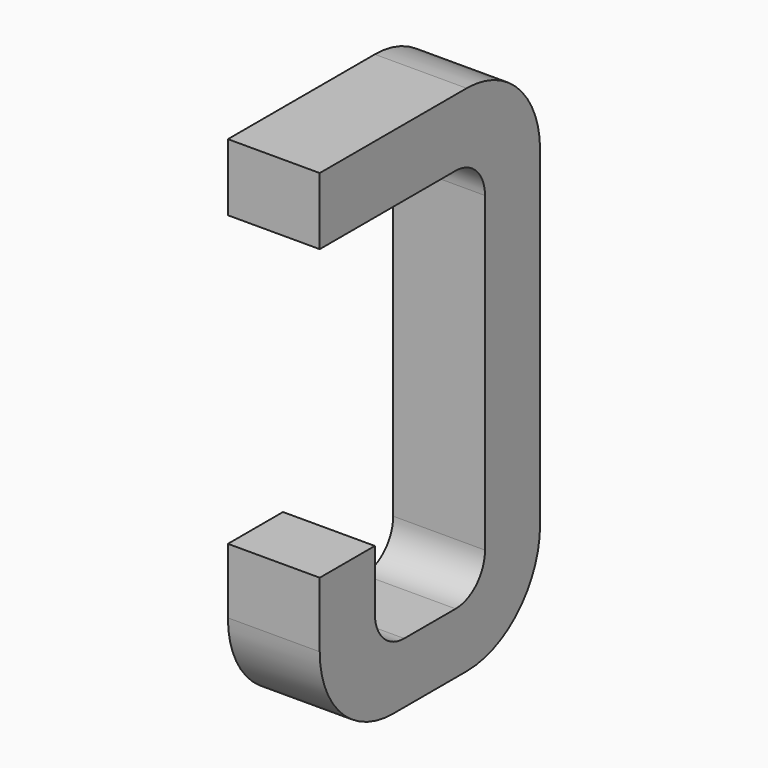
from build123d import *

# Parameters (mm, degrees)
BOX200_W     = 0.5
BOX200_H     = 1.5
BOX200_DEPTH = 2.795
FILLET397_R  = 0.5
FILLET399_R  = 0.5
FILLET410_R  = 0.5
BOX196_W     = 0.75
BOX196_H     = 2.1
BOX196_DEPTH = 1
FILLET411_R  = 0.2
FILLET407_R  = 0.2
FILLET398_R  = 0.2
FILLET409_R  = 0.2
BOX197_W     = 1
BOX197_H     = 1.575
BOX197_DEPTH = 3


with BuildPart() as part:
    # Box200 → Box200 (join)
    with BuildSketch(Plane(origin=(-0.25, 11.125, 0), x_dir=(1, 0, 0), z_dir=(0, 0, 1))):
        with Locations((0.25, 0.75)):
            Rectangle(BOX200_W, BOX200_H)
    extrude(amount=BOX200_DEPTH)

    # Fillet397
    fillet397_edges = [part.edges().sort_by_distance(p)[0] for p in [
        (0, 12.625, 0),
    ]]
    fillet(fillet397_edges, radius=FILLET397_R)

    # Fillet399
    fillet399_edges = [part.edges().sort_by_distance(p)[0] for p in [
        (0, 12.625, 2.795),
    ]]
    fillet(fillet399_edges, radius=FILLET399_R)

    # Fillet410
    fillet410_edges = [part.edges().sort_by_distance(p)[0] for p in [
        (0, 11.125, 0),
    ]]
    fillet(fillet410_edges, radius=FILLET410_R)

    # Box196 → Box196 (cut)
    with BuildSketch(Plane(origin=(-0.5, 11.5, 0.33), x_dir=(0, 1, 0), z_dir=(1, 0, 0))):
        with Locations((0.375, 1.05)):
            Rectangle(BOX196_W, BOX196_H)
    extrude(amount=BOX196_DEPTH, mode=Mode.SUBTRACT)

    # Fillet411
    fillet411_edges = [part.edges().sort_by_distance(p)[0] for p in [
        (0, 11.5, 0.33),
    ]]
    fillet(fillet411_edges, radius=FILLET411_R)

    # Fillet407
    fillet407_edges = [part.edges().sort_by_distance(p)[0] for p in [
        (0, 12.25, 0.33),
    ]]
    fillet(fillet407_edges, radius=FILLET407_R)

    # Fillet398
    fillet398_edges = [part.edges().sort_by_distance(p)[0] for p in [
        (0, 11.5, 2.43),
    ]]
    fillet(fillet398_edges, radius=FILLET398_R)

    # Fillet409
    fillet409_edges = [part.edges().sort_by_distance(p)[0] for p in [
        (0, 12.25, 2.43),
    ]]
    fillet(fillet409_edges, radius=FILLET409_R)

    # Box197 → Box197 (cut)
    with BuildSketch(Plane(origin=(-1, 11, 0.855), x_dir=(0, 1, 0), z_dir=(1, 0, 0))):
        with Locations((0.5, 0.7875)):
            Rectangle(BOX197_W, BOX197_H)
    extrude(amount=BOX197_DEPTH, mode=Mode.SUBTRACT)


with BuildPart() as part_1:
    # Body056 placement: moved
    add(part.part.moved(Location((10.16, 0, 0))))


solid = part_1.part
